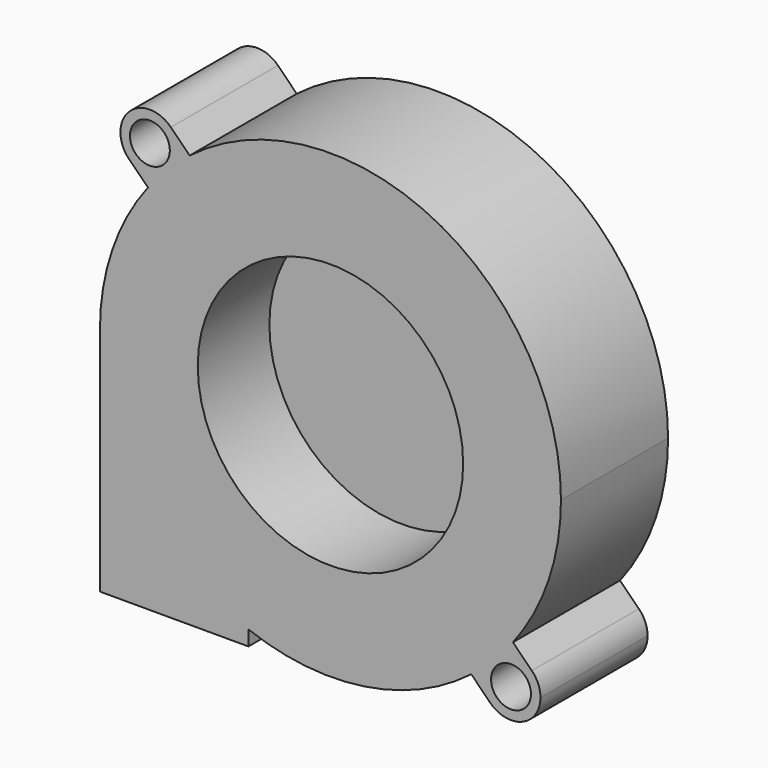
from build123d import *

# Parameters (mm, degrees)
F0_R     = 14.9681612706
F0_R_2   = 2.25
F1_DEPTH = 15.1
F2_DEPTH = 5


with BuildPart() as f1:
    # F0 (on Front) → F1 (new body)
    with BuildSketch(Plane.XZ):
        with BuildLine():
            ThreePointArc((20.5849330967, -15.8827116515), (24.6090253821, -8.3902246539), (26, 0))
            ThreePointArc((26, 0), (11.4684239776, 23.3339934745), (-15.8827116515, 20.5849330967))
            ThreePointArc((-15.8827116515, 20.5849330967), (-16.5200544248, 20.0770466404), (-17.1411666244, 19.5494349472))
            ThreePointArc((-17.1411666244, 19.5494349472), (-18.0135452507, 18.0135452507), (-19.5494349472, 17.1411666244))
            ThreePointArc((-19.5494349472, 17.1411666244), (-20.0770466404, 16.5200544248), (-20.5849330967, 15.8827116515))
            ThreePointArc((-20.5849330967, 15.8827116515), (-24.6090253821, 8.3902246539), (-26, 0))
            ThreePointArc((-26, 0), (-21.4067746286, -14.7563545634), (-9.25, -24.2989197291))
            ThreePointArc((-9.25, -24.2989197291), (3.8008736021, -25.7206796151), (15.8827116515, -20.5849330967))
            ThreePointArc((15.8827116515, -20.5849330967), (16.5200544248, -20.0770466404), (17.1411666244, -19.5494349472))
            ThreePointArc((17.1411666244, -19.5494349472), (18.0135452507, -18.0135452507), (19.5494349472, -17.1411666244))
            ThreePointArc((19.5494349472, -17.1411666244), (20.0770466404, -16.5200544248), (20.5849330967, -15.8827116515))
        make_face()
        Circle(F0_R, mode=Mode.SUBTRACT)
        with BuildLine():
            ThreePointArc((-17.1411666244, 19.5494349472), (-16.5200544248, 20.0770466404), (-15.8827116515, 20.5849330967))
            Line((-15.8827116515, 20.5849330967), (-18.0040319951, 22.7062534403))
            ThreePointArc((-18.0040319951, 22.7062534403), (-17.2902026619, 21.630867625), (-17.0396752982, 20.3646752982))
            ThreePointArc((-17.0396752982, 20.3646752982), (-17.0651456847, 19.9539085398), (-17.1411666244, 19.5494349472))
        make_face()
        with BuildLine():
            Line((22.7062534403, -18.0040319951), (20.5849330967, -15.8827116515))
            ThreePointArc((20.5849330967, -15.8827116515), (20.0770466404, -16.5200544248), (19.5494349472, -17.1411666244))
            ThreePointArc((19.5494349472, -17.1411666244), (21.2413513644, -17.1573299668), (22.7062534403, -18.0040319951))
        make_face()
        with BuildLine():
            ThreePointArc((-19.5494349472, 17.1411666244), (-18.3847763109, 18.3847763109), (-17.1411666244, 19.5494349472))
            ThreePointArc((-17.1411666244, 19.5494349472), (-17.0651456847, 19.9539085398), (-17.0396752982, 20.3646752982))
            ThreePointArc((-17.0396752982, 20.3646752982), (-17.2902026619, 21.630867625), (-18.0040319951, 22.7062534403))
            ThreePointArc((-18.0040319951, 22.7062534403), (-22.7158053456, 22.7158053456), (-22.7062534403, 18.0040319951))
            ThreePointArc((-22.7062534403, 18.0040319951), (-21.2413513644, 17.1573299668), (-19.5494349472, 17.1411666244))
        make_face()
        with Locations((-20.3646752982, 20.3646752982)):
            Circle(F0_R_2, mode=Mode.SUBTRACT)
        with BuildLine():
            ThreePointArc((22.7062534403, -18.0040319951), (21.2413513644, -17.1573299668), (19.5494349472, -17.1411666244))
            ThreePointArc((19.5494349472, -17.1411666244), (18.3847763109, -18.3847763109), (17.1411666244, -19.5494349472))
            ThreePointArc((17.1411666244, -19.5494349472), (17.1573299668, -21.2413513644), (18.0040319951, -22.7062534403))
            ThreePointArc((18.0040319951, -22.7062534403), (21.630867625, -23.4391479345), (23.6896752982, -20.3646752982))
            ThreePointArc((23.6896752982, -20.3646752982), (23.4339889285, -19.0860280291), (22.7062534403, -18.0040319951))
        make_face()
        with Locations((20.3646752982, -20.3646752982)):
            Circle(F0_R_2, mode=Mode.SUBTRACT)
        with BuildLine():
            ThreePointArc((-20.5849330967, 15.8827116515), (-20.0770466404, 16.5200544248), (-19.5494349472, 17.1411666244))
            ThreePointArc((-19.5494349472, 17.1411666244), (-21.2413513644, 17.1573299668), (-22.7062534403, 18.0040319951))
            Line((-22.7062534403, 18.0040319951), (-20.5849330967, 15.8827116515))
        make_face()
        with BuildLine():
            ThreePointArc((18.0040319951, -22.7062534403), (17.1573299668, -21.2413513644), (17.1411666244, -19.5494349472))
            ThreePointArc((17.1411666244, -19.5494349472), (16.5200544248, -20.0770466404), (15.8827116515, -20.5849330967))
            Line((15.8827116515, -20.5849330967), (18.0040319951, -22.7062534403))
        make_face()
        with BuildLine():
            ThreePointArc((-9.25, -24.2989197291), (-21.4067746286, -14.7563545634), (-26, 0))
            Line((-26, 0), (-26, -26))
            Line((-26, -26), (-9.25, -26))
            Line((-9.25, -26), (-9.25, -24.2989197291))
        make_face()
        with BuildLine():
            ThreePointArc((-19.5494349472, 17.1411666244), (-18.0135452507, 18.0135452507), (-17.1411666244, 19.5494349472))
            ThreePointArc((-17.1411666244, 19.5494349472), (-18.3847763109, 18.3847763109), (-19.5494349472, 17.1411666244))
        make_face()
        with BuildLine():
            ThreePointArc((17.1411666244, -19.5494349472), (18.3847763109, -18.3847763109), (19.5494349472, -17.1411666244))
            ThreePointArc((19.5494349472, -17.1411666244), (18.0135452507, -18.0135452507), (17.1411666244, -19.5494349472))
        make_face()
    extrude(amount=F1_DEPTH)

    # F0 (on Front) → F2 (join)
    with BuildSketch(Plane.XZ):
        Circle(F0_R)
    extrude(amount=F2_DEPTH)


solid = f1.part
